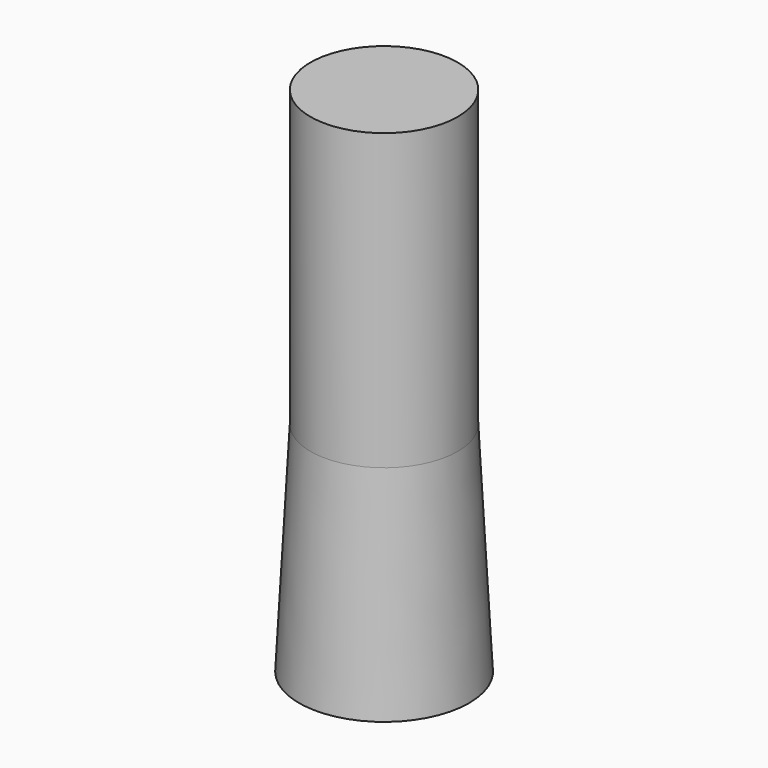
from build123d import *

# Parameters (mm, degrees)
F0_R          = 25
F1_DEPTH      = 100
F1_DEPTH_BACK = 73.92812
F1_TAPER_BACK = -3


with BuildPart() as f1:
    # F0 (on Top) → F1 (new body, two sides)
    with BuildSketch(Plane.XY) as f1_sk:
        Circle(F0_R)
    extrude(amount=F1_DEPTH)
    extrude(f1_sk.sketch, amount=-F1_DEPTH_BACK, taper=F1_TAPER_BACK)


solid = f1.part
